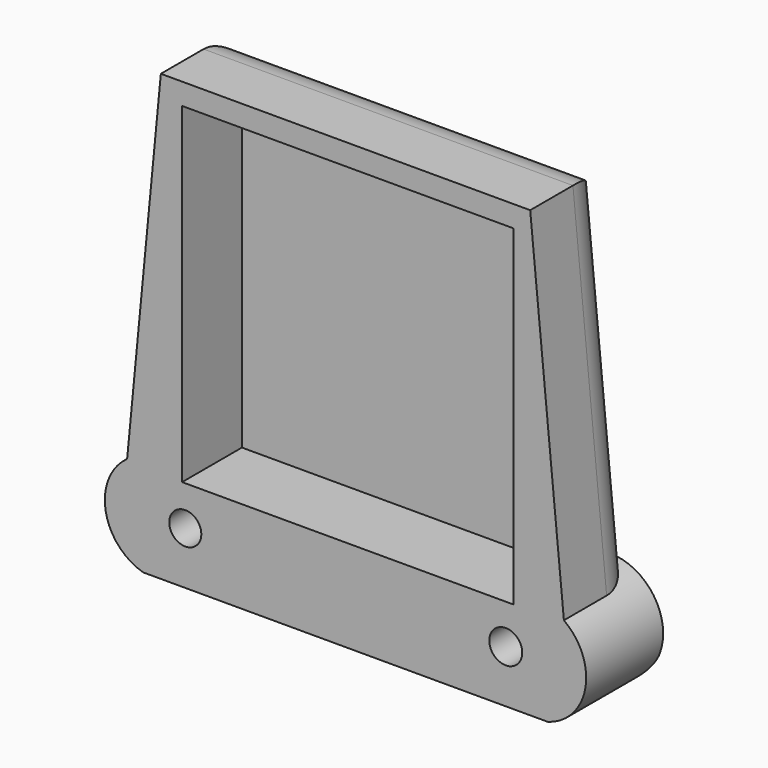
from build123d import *

# Parameters (mm, degrees)
SKETCH_R        = 1.501869
SKETCH_R_2      = 1.541907
PAD_DEPTH       = 9
SKETCH003_W     = 31
SKETCH003_H     = 31
POCKET_DEPTH    = 7
FILLET_R        = 4
SKETCH004_R     = 2.968472
SKETCH004_R_2   = 3.036595
POCKET001_DEPTH = 4
FILLET001_R     = 3


with BuildPart() as part:
    # Sketch → Pad (new body)
    with BuildSketch(Plane.XZ):
        with BuildLine():
            ThreePointArc((2.716597, 148.883863), (0.695773, 143.988618), (4.206694, 140.023699))
            Line((4.206694, 140.023699), (42.11266, 140.023699))
            ThreePointArc((42.11266, 140.023699), (45.623581, 143.988618), (43.602757, 148.883863))
            Line((40.447369, 181.653), (43.602757, 148.883863))
            Line((5.871985, 181.653), (40.447369, 181.653))
            Line((2.716597, 148.883863), (5.871985, 181.653))
        make_face()
        with Locations((8.159677, 144.938485)):
            Circle(SKETCH_R, mode=Mode.SUBTRACT)
        with Locations((38.159677, 144.938485)):
            Circle(SKETCH_R_2, mode=Mode.SUBTRACT)
    extrude(amount=PAD_DEPTH)

    # Sketch003 (on Face10 of Pad) → Pocket (cut)
    with BuildSketch(Plane.XZ.offset(9)):
        with Locations((23.362282, 164.148895)):
            Rectangle(SKETCH003_W, SKETCH003_H)
    extrude(amount=-POCKET_DEPTH, mode=Mode.SUBTRACT)

    # Fillet
    fillet_edges = [part.edges().sort_by_distance(p)[0] for p in [
        (42.025063, 0, 165.268432),
        (23.159677, 0, 181.653),
        (4.294291, 0, 165.268432),
    ]]
    fillet(fillet_edges, radius=FILLET_R)

    # Sketch004 (on Face5 of Fillet) → Pocket001 (cut)
    with BuildSketch(Plane(origin=(0, 0, 0), x_dir=(1, 0, 0), z_dir=(0, 1, 0))):
        with Locations((38.159676, -144.938507)):
            Circle(SKETCH004_R)
        with Locations((8.159677, -144.938507)):
            Circle(SKETCH004_R_2)
    extrude(amount=-POCKET001_DEPTH, mode=Mode.SUBTRACT)

    # Fillet001
    fillet001_edges = [part.edges().sort_by_distance(p)[0] for p in [
        (23.159677, 0, 140.023699),
    ]]
    fillet(fillet001_edges, radius=FILLET001_R)


solid = part.part
